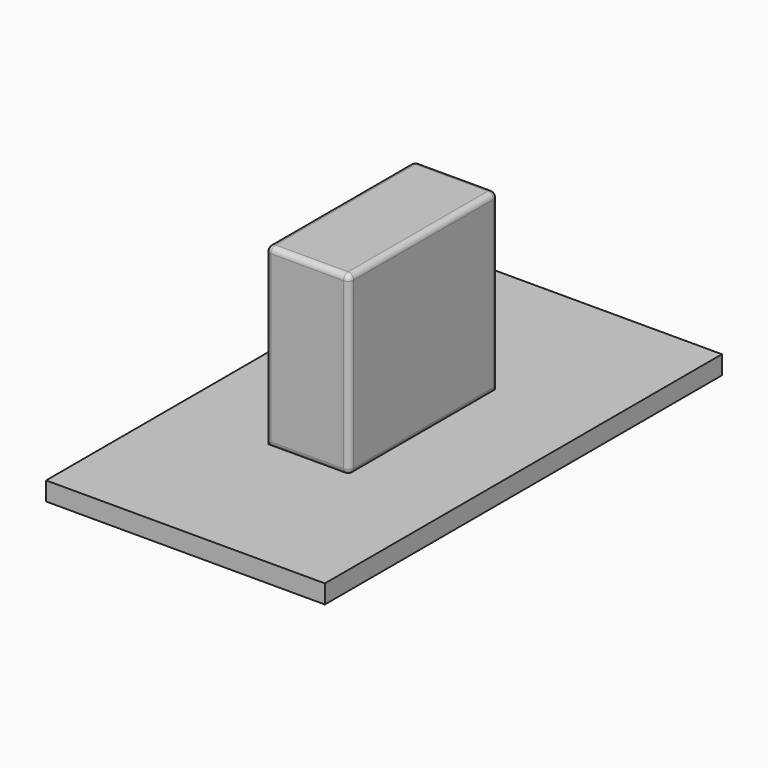
from build123d import *

# Parameters (mm, degrees)
F0_W     = 45
F0_H     = 95
F1_DEPTH = 100
F2_R     = 3
F3_W     = 150
F3_H     = 267
F4_DEPTH = 10


with BuildPart() as f1:
    # F0 (on Front) → F1 (new body)
    with BuildSketch(Plane.XZ):
        Rectangle(F0_W, F0_H)
    extrude(amount=F1_DEPTH)

    # F2
    f2_edges = [f1.edges().sort_by_distance(p)[0] for p in [
        (22.5, -100, 0),
        (-22.5, -100, 0),
        (0, -100, -47.5),
        (0, -100, 47.5),
        (22.5, 0, 0),
        (-22.5, 0, 0),
        (22.5, -50, -47.5),
        (22.5, -50, 47.5),
        (-22.5, -50, 47.5),
        (0, 0, 47.5),
    ]]
    fillet(f2_edges, radius=F2_R)


with BuildPart() as f4:
    # F3 (on face) → F4 (new body)
    with BuildSketch(Plane(origin=(0, 0, -47.5), x_dir=(1, 0, 0), z_dir=(0, 0, -1))):
        with Locations((0, 48.5)):
            Rectangle(F3_W, F3_H)
    extrude(amount=F4_DEPTH)


solid = Compound([f1.part, f4.part])
